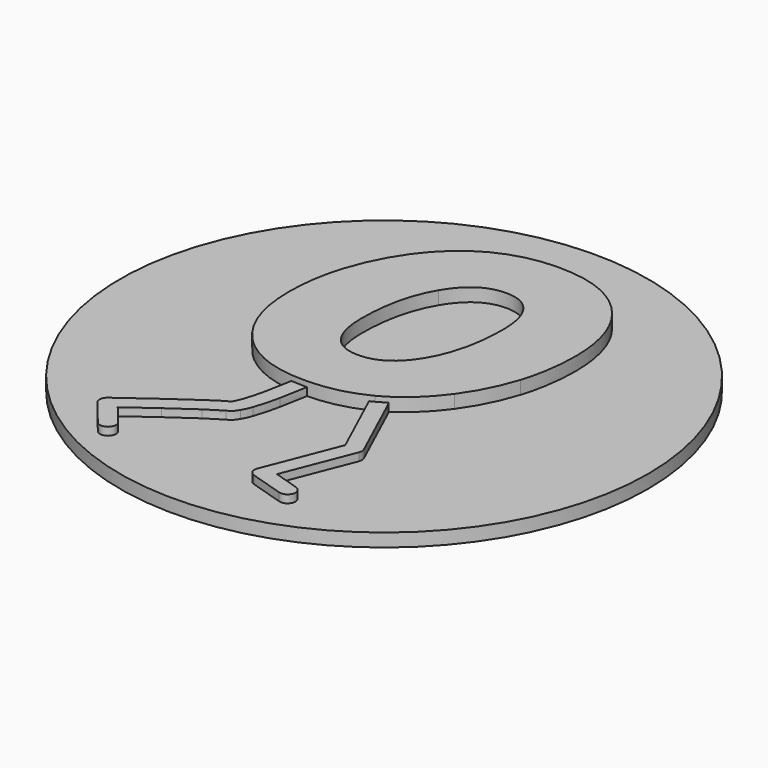
from build123d import *

# Parameters (mm, degrees)
EXTRUDE003_DEPTH = 0.6
EXTRUDE002_DEPTH = 0.6
EXTRUDE001_DEPTH = 3
EXTRUDE_DEPTH    = 1
CYLINDER_R       = 20
CYLINDER_DEPTH   = 1


with BuildPart() as left_leg:
    # path6_1_7_2_6001 → Extrude003 (new body)
    with BuildSketch(Plane(origin=(-6.250129, -9.990782, 1), x_dir=(0, 1, 0), z_dir=(0, 0, 1))):
        with BuildLine():
            add(Edge.make_bspline(
                [(6.336463, -3.743678), (6.345987, -3.201304), (5.807255, -3.137309)],
                knots=[0, 0, 0, 1.470105, 1.470105, 1.470105], degree=2, weights=[1, 0.741796, 1]))
            add(Edge.make_bspline(
                [(5.807255, -3.137309), (5.807255, -3.137309), (4.589183, -2.974277), (3.333138, -2.702844)],
                knots=[0, 0, 0, 0, 1, 1, 1, 1], degree=3))
            add(Edge.make_bspline(
                [(3.333138, -2.702844), (2.705116, -2.567128), (2.067843, -2.402804), (1.593735, -2.230441)],
                knots=[0, 0, 0, 0, 1, 1, 1, 1], degree=3))
            add(Edge.make_bspline(
                [(1.593735, -2.230441), (1.356681, -2.144258), (1.160146, -2.054465), (1.039342, -1.981648)],
                knots=[0, 0, 0, 0, 1, 1, 1, 1], degree=3))
            add(Edge.make_bspline(
                [(1.039342, -1.981648), (0.918539, -1.90883), (0.897413, -1.842439), (0.934574, -1.926585)],
                knots=[0, 0, 0, 0, 1, 1, 1, 1], degree=3))
            add(Edge.make_bspline(
                [(0.934574, -1.926585), (0.934403, -1.926413), (0.934231, -1.926241)],
                knots=[0, 0, 0, 0.00081, 0.00081, 0.00081], degree=2, weights=[1, 1, 1]))
            add(Edge.make_bspline(
                [(0.934231, -1.926241), (0.778363, -1.574079), (0.480926, -1.132286), (0.071915, -0.528502)],
                knots=[0, 0, 0, 0, 1, 1, 1, 1], degree=3))
            add(Edge.make_bspline(
                [(0.071915, -0.528502), (-0.337096, 0.075279), (-0.840379, 0.788377), (-1.330688, 1.472918)],
                knots=[0, 0, 0, 0, 1, 1, 1, 1], degree=3))
            add(Edge.make_bspline(
                [(-1.330688, 1.472918), (-2.311307, 2.842001), (-3.240675, 4.096489), (-3.240673, 4.096489)],
                knots=[0, 0, 0, 0, 1, 1, 1, 1], degree=3))
            add(Edge.make_bspline(
                [(-3.240673, 4.096489), (-3.616102, 4.602642), (-4.103323, 4.202923)],
                knots=[0, 0, 0, 1.619783, 1.619783, 1.619783], degree=2, weights=[1, 0.689577, 1]))
            add(Edge.make_bspline(
                [(-4.103323, 4.202923), (-6.053941, 2.602391)],
                knots=[0, 0, 14.676896, 14.676896], degree=1))
            add(Edge.make_bspline(
                [(-6.053941, 2.602391), (-6.52696, 2.222739), (-6.142216, 1.753872), (-5.757472, 1.285004), (-5.2927, 1.674705)],
                knots=[3.817984, 3.817984, 3.817984, 5.399497, 5.399497, 6.98101, 6.98101, 6.98101], degree=2, weights=[1, 0.703308, 1, 0.703308, 1]))
            add(Edge.make_bspline(
                [(-5.2927, 1.674705), (-3.833682, 2.872336)],
                knots=[0, 0, 10.979713, 10.979713], degree=1))
            add(Edge.make_bspline(
                [(-3.833682, 2.872336), (-3.56972, 2.514681), (-3.089525, 1.867898), (-2.306165, 0.774217)],
                knots=[0, 0, 0, 0, 1, 1, 1, 1], degree=3))
            add(Edge.make_bspline(
                [(-2.306165, 0.774217), (-1.819338, 0.094541), (-1.320453, -0.6127), (-0.921693, -1.201352)],
                knots=[0, 0, 0, 0, 1, 1, 1, 1], degree=3))
            add(Edge.make_bspline(
                [(-0.921693, -1.201352), (-0.523062, -1.789812), (-0.207555, -2.311936), (-0.163475, -2.411404)],
                knots=[0, 0, 0, 0, 1, 1, 1, 1], degree=3))
            add(Edge.make_bspline(
                [(-0.163475, -2.411404), (-0.163131, -2.411748)],
                knots=[0, 0, 0.002828, 0.002828], degree=1))
            add(Edge.make_bspline(
                [(-0.163131, -2.411748), (-0.026211, -2.72141), (0.194017, -2.873288), (0.419803, -3.009389)],
                knots=[0, 0, 0, 0, 1, 1, 1, 1], degree=3))
            add(Edge.make_bspline(
                [(0.419803, -3.009389), (0.645708, -3.14556), (0.901235, -3.255533), (1.183731, -3.358235)],
                knots=[0, 0, 0, 0, 1, 1, 1, 1], degree=3))
            add(Edge.make_bspline(
                [(1.183731, -3.358235), (1.748723, -3.563641), (2.421911, -3.733499), (3.079613, -3.87563)],
                knots=[0, 0, 0, 0, 1, 1, 1, 1], degree=3))
            add(Edge.make_bspline(
                [(3.079613, -3.87563), (4.395017, -4.159891), (5.648423, -4.326882), (5.648423, -4.326882)],
                knots=[0, 0, 0, 0, 1, 1, 1, 1], degree=3))
            add(Edge.make_bspline(
                [(5.648423, -4.326882), (6.32469, -4.42716), (6.336461, -3.743679)],
                knots=[0, 0, 0, 1.700805, 1.700805, 1.700805], degree=2, weights=[1, 0.659681, 1]))
            add(Edge.make_bspline(
                [(6.336461, -3.743679), (6.336463, -3.743678)],
                knots=[0, 0, 1.4e-05, 1.4e-05], degree=1))
        make_face()
    extrude(amount=EXTRUDE003_DEPTH)


with BuildPart() as legs:
    # path6_1_7_2_6 → Extrude002 (new body)
    with BuildSketch(Plane(origin=(3.941593, -9.823323, 1), x_dir=(0, 1, 0), z_dir=(0, 0, 1))):
        with BuildLine():
            add(Edge.make_bspline(
                [(6.629039, 1.371464), (6.587417, 2.274304), (5.771426, 1.8855)],
                knots=[0, 0, 0, 1.969435, 1.969435, 1.969435], degree=2, weights=[1, 0.553098, 1]))
            add(Edge.make_bspline(
                [(5.771426, 1.8855), (0.616345, -0.482226)],
                knots=[0, 0, 32.996512, 32.996512], degree=1))
            add(Edge.make_bspline(
                [(0.616345, -0.482226), (-4.973252, 1.705538)],
                knots=[0, 0, 34.913855, 34.913855], degree=1))
            add(Edge.make_bspline(
                [(-4.973252, 1.705538), (-5.573744, 1.94054), (-5.76505, 1.324795)],
                knots=[0, 0, 0, 1.642661, 1.642661, 1.642661], degree=2, weights=[1, 0.681248, 1]))
            add(Edge.make_bspline(
                [(-5.76505, 1.324795), (-6.550468, -1.203087)],
                knots=[0, 0, 15.398354, 15.398354], degree=1))
            add(Edge.make_bspline(
                [(-6.550468, -1.203087), (-6.733973, -1.778858), (-6.156846, -1.958249), (-5.579718, -2.13764), (-5.404408, -1.559322)],
                knots=[4.403889, 4.403889, 4.403889, 5.981786, 5.981786, 7.559682, 7.559682, 7.559682], degree=2, weights=[1, 0.704592, 1, 0.704592, 1]))
            add(Edge.make_bspline(
                [(-5.404408, -1.559322), (-4.810393, 0.353126)],
                knots=[0, 0, 11.649169, 11.649169], degree=1))
            add(Edge.make_bspline(
                [(-4.810393, 0.353126), (0.416213, -1.692615)],
                knots=[0, 0, 32.646648, 32.646648], degree=1))
            add(Edge.make_bspline(
                [(0.416213, -1.692615), (0.653786, -1.785692), (0.885649, -1.679189)],
                knots=[0, 0, 0, 0.804076, 0.804076, 0.804076], degree=2, weights=[1, 0.920266, 1]))
            add(Edge.make_bspline(
                [(0.885649, -1.679189), (6.272429, 0.795307)],
                knots=[0, 0, 34.480418, 34.480418], degree=1))
            add(Edge.make_bspline(
                [(6.272429, 0.795307), (6.647825, 0.961422), (6.629039, 1.371458)],
                knots=[0, 0, 0, 1.199926, 1.199926, 1.199926], degree=2, weights=[1, 0.825356, 1]))
            add(Edge.make_bspline(
                [(6.629039, 1.371458), (6.629039, 1.371464)],
                knots=[0, 0, 3e-05, 3e-05], degree=1))
        make_face()
    extrude(amount=EXTRUDE002_DEPTH)

    # Fusion: union left-leg
    add(left_leg.part)


with BuildPart() as extrude001:
    # path4641 → Extrude001 (new body)
    with BuildSketch(Plane(origin=(-0.776415, 5.526986, 1), x_dir=(0, 1, 0), z_dir=(0, 0, 1))):
        with BuildLine():
            add(Edge.make_bspline(
                [(5.841808, -0.943557), (5.841808, 1.089847), (3.624737, 2.406438)],
                knots=[0, 0, 0, 1, 1, 1], degree=2))
            add(Edge.make_bspline(
                [(3.624737, 2.406438), (1.407665, 3.72303), (-2.023518, 3.72303)],
                knots=[0, 0, 0, 1, 1, 1], degree=2))
            add(Edge.make_bspline(
                [(-2.023518, 3.72303), (-3.888673, 3.72303), (-4.874038, 3.020849)],
                knots=[0, 0, 0, 1, 1, 1], degree=2))
            add(Edge.make_bspline(
                [(-4.874038, 3.020849), (-5.841808, 2.304037), (-5.841808, 0.943559)],
                knots=[0, 0, 0, 1, 1, 1], degree=2))
            add(Edge.make_bspline(
                [(-5.841808, 0.943559), (-5.841808, -1.089845), (-3.624737, -2.406437)],
                knots=[0, 0, 0, 1, 1, 1], degree=2))
            add(Edge.make_bspline(
                [(-3.624737, -2.406437), (-1.390068, -3.72303), (2.05871, -3.72303)],
                knots=[0, 0, 0, 1, 1, 1], degree=2))
            add(Edge.make_bspline(
                [(2.05871, -3.72303), (3.90627, -3.72303), (4.87404, -3.006218)],
                knots=[0, 0, 0, 1, 1, 1], degree=2))
            add(Edge.make_bspline(
                [(4.87404, -3.006218), (5.841808, -2.304035), (5.841808, -0.943557)],
                knots=[0, 0, 0, 1, 1, 1], degree=2))
        make_face()
    extrude(amount=EXTRUDE001_DEPTH)


with BuildPart() as bit_0_legs:
    # path4641001 → Extrude (new body)
    with BuildSketch(Plane(origin=(-0.776416, 5.526986, 1), x_dir=(0, -1, 0), z_dir=(0, 0, -1))):
        with BuildLine():
            add(Edge.make_bspline(
                [(-10.346335, -1.367793), (-10.346335, -5.024995), (-8.111667, -7.116913)],
                knots=[0, 0, 0, 1, 1, 1], degree=2))
            add(Edge.make_bspline(
                [(-8.111667, -7.116913), (-5.876999, -9.208831), (-2.023519, -9.208831)],
                knots=[0, 0, 0, 1, 1, 1], degree=2))
            add(Edge.make_bspline(
                [(-2.023519, -9.208831), (0.21115, -9.208831), (2.322647, -8.550536)],
                knots=[0, 0, 0, 1, 1, 1], degree=2))
            add(Edge.make_bspline(
                [(2.322647, -8.550536), (4.416548, -7.892239), (6.158533, -6.634162)],
                knots=[0, 0, 0, 1, 1, 1], degree=2))
            add(Edge.make_bspline(
                [(6.158533, -6.634162), (8.234838, -5.142025), (9.290587, -3.10862)],
                knots=[0, 0, 0, 1, 1, 1], degree=2))
            add(Edge.make_bspline(
                [(9.290587, -3.10862), (10.346335, -1.075218), (10.346335, 1.426308)],
                knots=[0, 0, 0, 1, 1, 1], degree=2))
            add(Edge.make_bspline(
                [(10.346335, 1.426308), (10.346335, 5.039623), (8.111667, 7.131541)],
                knots=[0, 0, 0, 1, 1, 1], degree=2))
            add(Edge.make_bspline(
                [(8.111667, 7.131541), (5.877001, 9.208831), (2.023519, 9.208831)],
                knots=[0, 0, 0, 1, 1, 1], degree=2))
            add(Edge.make_bspline(
                [(2.023519, 9.208831), (-0.193553, 9.208831), (-2.30505, 8.535906)],
                knots=[0, 0, 0, 1, 1, 1], degree=2))
            add(Edge.make_bspline(
                [(-2.30505, 8.535906), (-4.434143, 7.862982), (-6.193725, 6.604904)],
                knots=[0, 0, 0, 1, 1, 1], degree=2))
            add(Edge.make_bspline(
                [(-6.193725, 6.604904), (-8.234838, 5.142025), (-9.290587, 3.123249)],
                knots=[0, 0, 0, 1, 1, 1], degree=2))
            add(Edge.make_bspline(
                [(-9.290587, 3.123249), (-10.346335, 1.089846), (-10.346335, -1.367793)],
                knots=[0, 0, 0, 1, 1, 1], degree=2))
        make_face()
    extrude(amount=EXTRUDE_DEPTH)


with BuildPart() as bit_0_legs_1:
    # Extrude placement: moved
    add(bit_0_legs.part.moved(Location((0, 0, 1))))

    # Cut: cut Extrude001
    add(extrude001.part, mode=Mode.SUBTRACT)

    # Fusion001: union legs
    add(legs.part)


with BuildPart() as bit_0_coin:
    # Cylinder → Cylinder (new body)
    with BuildSketch(Plane.XY):
        Circle(CYLINDER_R)
    extrude(amount=CYLINDER_DEPTH)

    # Fusion002: union Bit-0-legs
    add(bit_0_legs_1.part)


solid = bit_0_coin.part
